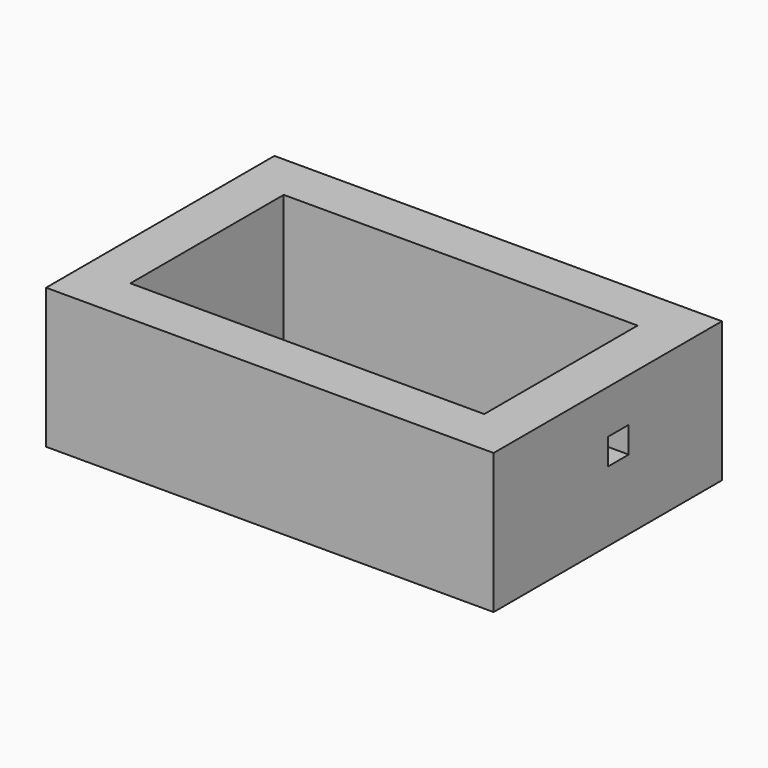
from build123d import *

# Parameters (mm, degrees)
F0_W      = 48
F0_H      = 26
F1_DEPTH  = 1
F0_H_2    = 1.2748
F0_W_2    = 1.273
F2_DEPTH  = 19
F4_W      = 50.546
F4_H      = 19
F4_W_2    = 3.4925
F4_H_2    = 3.4925
F5_DEPTH  = 5.08
F3_W      = 50.546
F3_H      = 19
F6_DEPTH  = 5.08
F7_W      = 38.7096
F7_H      = 19
F7_W_2    = 3.556
F7_H_2    = 3.556
F9_DEPTH  = 5.08
F8_W      = 38.7096
F8_H      = 19
F10_DEPTH = 5.08


with BuildPart() as f1:
    # F0 (on Top) → F1 (new body)
    with BuildSketch(Plane.XY):
        Rectangle(F0_W, F0_H)
    extrude(amount=F1_DEPTH)

    # F0 (on Top) → F2 (join)
    with BuildSketch(Plane.XY):
        with Locations((0, -13.6374)):
            Rectangle(F0_W, F0_H_2)
        with Locations((0, 13.6374)):
            Rectangle(F0_W, F0_H_2)
        with Locations((24.6365, 0)):
            Rectangle(F0_W_2, F0_H)
        with Locations((-24.6365, 0)):
            Rectangle(F0_W_2, F0_H)
        with Locations((-24.6365, -13.6374)):
            Rectangle(F0_W_2, F0_H_2)
        with Locations((24.6365, -13.6374)):
            Rectangle(F0_W_2, F0_H_2)
        with Locations((24.6365, 13.6374)):
            Rectangle(F0_W_2, F0_H_2)
        with Locations((-24.6365, 13.6374)):
            Rectangle(F0_W_2, F0_H_2)
    extrude(amount=F2_DEPTH)

    # F4 (on face) → F5 (join)
    with BuildSketch(Plane(origin=(0, 14.2748, 0), x_dir=(-1, 0, 0), z_dir=(0, 1, 0))):
        with Locations((0, 9.5)):
            Rectangle(F4_W, F4_H)
        with Locations((1.74625, 11.24625)):
            Rectangle(F4_W_2, F4_H_2, mode=Mode.SUBTRACT)
    extrude(amount=F5_DEPTH)

    # F3 (on face) → F6 (join)
    with BuildSketch(Plane.XZ.offset(14.2748)):
        with Locations((0, 9.5)):
            Rectangle(F3_W, F3_H)
    extrude(amount=F6_DEPTH)

    # F7 (on face) → F9 (join)
    with BuildSketch(Plane.YZ.offset(25.273)):
        with Locations((0, 9.5)):
            Rectangle(F7_W, F7_H)
        with Locations((1.778, 11.278)):
            Rectangle(F7_W_2, F7_H_2, mode=Mode.SUBTRACT)
    extrude(amount=F9_DEPTH)

    # F8 (on face) → F10 (join)
    with BuildSketch(Plane(origin=(-25.273, 0, 0), x_dir=(0, -1, 0), z_dir=(-1, 0, 0))):
        with Locations((0, 9.5)):
            Rectangle(F8_W, F8_H)
    extrude(amount=F10_DEPTH)


solid = f1.part
